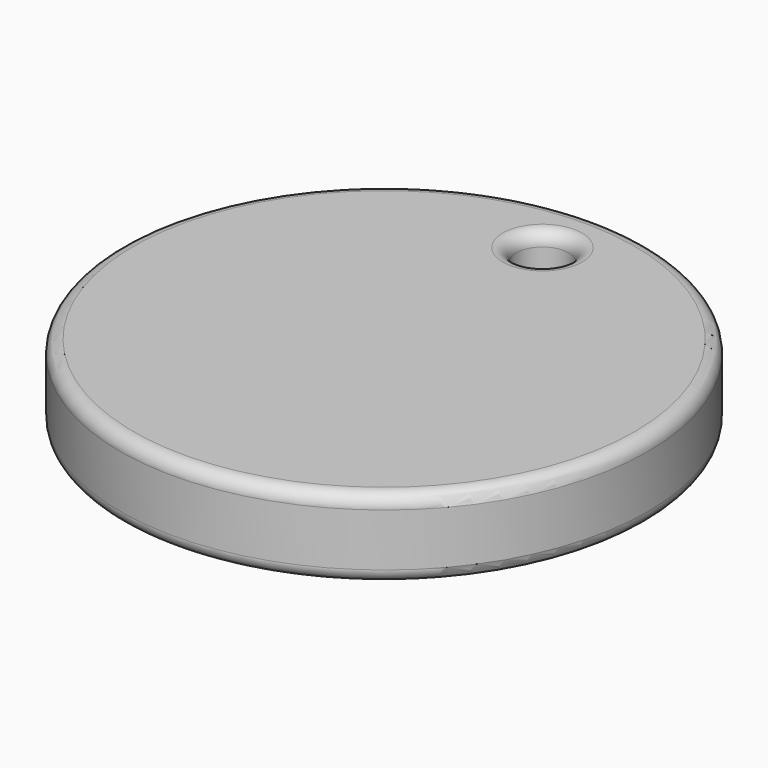
from build123d import *

# Parameters (mm, degrees)
F0_R     = 20
F0_R_2   = 2
F1_DEPTH = 6
F2_R     = 1


with BuildPart() as f1:
    # F0 (on Top) → F1 (new body)
    with BuildSketch(Plane.XY):
        with Locations((0, -15)):
            Circle(F0_R)
        Circle(F0_R_2, mode=Mode.SUBTRACT)
    extrude(amount=F1_DEPTH)

    # F2
    f2_edges = [f1.edges().sort_by_distance(p)[0] for p in [
        (-20, -15, 6),
        (-2, 0, 6),
        (-20, -15, 0),
        (-2, 0, 0),
    ]]
    fillet(f2_edges, radius=F2_R)


solid = f1.part
